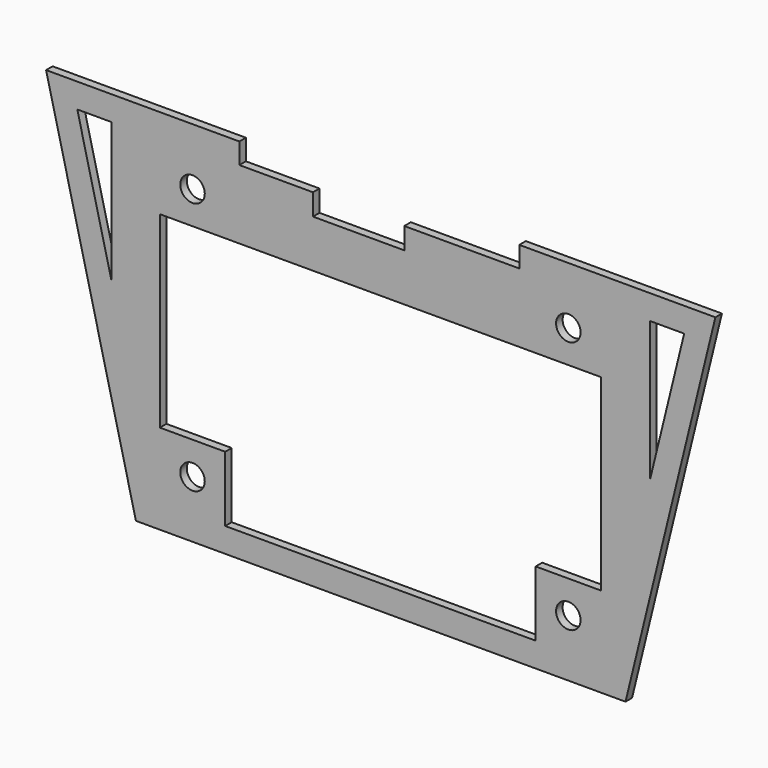
from build123d import *

# Parameters (mm, degrees)
F0_W     = 540
F0_H     = 390
F1_DEPTH = 10
F2_W     = 80
F2_H     = 80
F2_R     = 15
F3_DEPTH = 10
F5_W     = 380
F5_H     = 80
F6_DEPTH = 10
F7_DEPTH = 25
F8_W     = 111.767
F8_H     = 26.2346411405
F9_DEPTH = 25


with BuildPart() as f1:
    # F0 (on Front) → F1 (new body)
    with BuildSketch(Plane.XZ):
        Polygon((-575.5810141563, 243.9473703504), (-465.5810141563, -206.0526296496), (133.660423523, -206.0526296496), (243.660423523, 243.9473703504), (133.660423523, 243.9473703504), (-465.5810141563, 243.9473703504), align=None)
        with Locations((-166.339576477, 18.9473703504)):
            Rectangle(F0_W, F0_H, mode=Mode.SUBTRACT)
        Polygon((-495.5810141563, 43.0153865893), (-537.3643879646, 213.9473703504), (-495.5810141563, 213.9473703504), align=None, mode=Mode.SUBTRACT)
        Polygon((163.660423523, 213.9473703504), (205.4437973313, 213.9473703504), (163.660423523, 43.0153865893), align=None, mode=Mode.SUBTRACT)
    extrude(amount=F1_DEPTH)

    # F2 (on face) → F3 (join)
    with BuildSketch(Plane.XZ.offset(10)):
        with Locations((-396.339576477, 173.9473703504)):
            Rectangle(F2_W, F2_H)
        with Locations((-396.339576477, 173.9473703504)):
            Circle(F2_R, mode=Mode.SUBTRACT)
        with Locations((63.660423523, 173.9473703504)):
            Rectangle(F2_W, F2_H)
        with Locations((63.660423523, 173.9473703504)):
            Circle(F2_R, mode=Mode.SUBTRACT)
        with Locations((63.660423523, -136.0526296496)):
            Rectangle(F2_W, F2_H)
        with Locations((63.660423523, -136.0526296496)):
            Circle(F2_R, mode=Mode.SUBTRACT)
        with Locations((-396.339576477, -136.0526296496)):
            Rectangle(F2_W, F2_H)
        with Locations((-396.339576477, -136.0526296496)):
            Circle(F2_R, mode=Mode.SUBTRACT)
    extrude(amount=-F3_DEPTH)

    # F5 (on face) → F6 (join)
    with BuildSketch(Plane.XZ.offset(10)):
        with Locations((-166.339576477, 173.9473703504)):
            Rectangle(F5_W, F5_H)
    extrude(amount=-F6_DEPTH)

    # F4 (on face) → F7 (cut)
    with BuildSketch(Plane.XZ.offset(10)):
        Polygon((3.5932296524, 243.9473703504), (-339.0040903476, 243.9473703504), (-339.0040903476, 218.5033703504), (-286.9719266891, 218.5033703504), (3.5932296524, 218.5033703504), align=None)
    extrude(amount=-F7_DEPTH, mode=Mode.SUBTRACT)

    # F8 (on face) → F9 (cut)
    with BuildSketch(Plane.XZ.offset(10)):
        with Locations((-193.0365383425, 205.3860497801)):
            Rectangle(F8_W, F8_H)
    extrude(amount=-F9_DEPTH, mode=Mode.SUBTRACT)


solid = f1.part
